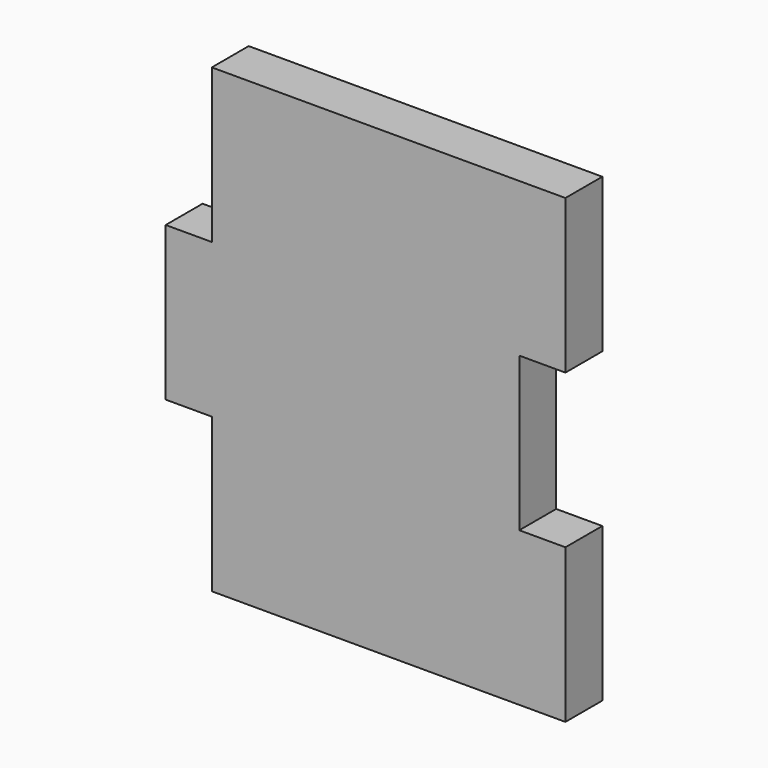
from build123d import *

# Parameters (mm, degrees)
F0_W     = 20
F0_H     = 3
F1_DEPTH = 30
F2_W     = 3
F2_H     = 10
F3_DEPTH = 3
F4_W     = 3
F4_H     = 10
F5_DEPTH = 3


with BuildPart() as f1:
    # F0 (on Top) → F1 (new body)
    with BuildSketch(Plane.XY):
        with Locations((10.308956, 0.197368)):
            Rectangle(F0_W, F0_H)
    extrude(amount=F1_DEPTH)

    # F2 (on face) → F3 (join)
    with BuildSketch(Plane.YZ.offset(20.308956)):
        with Locations((0.197368, 25)):
            Rectangle(F2_W, F2_H)
        with Locations((0.197368, 5)):
            Rectangle(F2_W, F2_H)
    extrude(amount=F3_DEPTH)

    # F4 (on face) → F5 (join)
    with BuildSketch(Plane(origin=(0.308956, 0, 0), x_dir=(0, -1, 0), z_dir=(-1, 0, 0))):
        with Locations((-0.197368, 15)):
            Rectangle(F4_W, F4_H)
    extrude(amount=F5_DEPTH)


solid = f1.part
